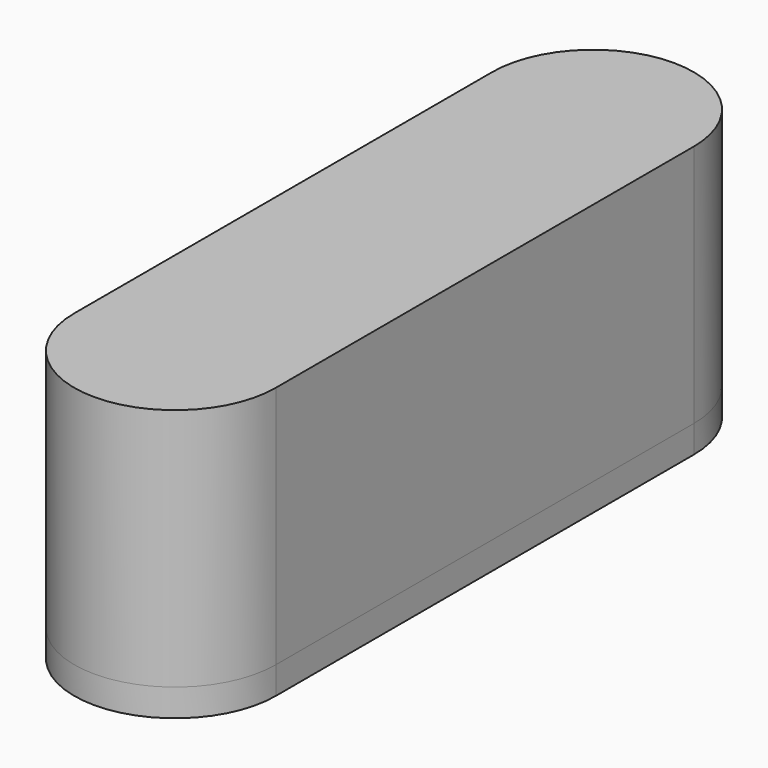
from build123d import *

# Parameters (mm, degrees)
F0_R     = 3.175
F1_DEPTH = 1
F2_SIZE  = 0.25
F3_DEPTH = 8.89
F6_DEPTH = 6.35
F8_DEPTH = 6.35


with BuildPart() as f1:
    # F0 (on Top) → F1 (new body)
    with BuildSketch(Plane.XY):
        with BuildLine():
            Line((3.675, -9.525), (3.675, 9.525))
            ThreePointArc((3.675, 9.525), (0, 5.85), (-3.675, 9.525))
            Line((-3.675, 9.525), (-3.675, -9.525))
            ThreePointArc((-3.675, -9.525), (0, -5.85), (3.675, -9.525))
        make_face()
        with BuildLine():
            ThreePointArc((-3.675, 9.525), (0, 5.85), (3.675, 9.525))
            ThreePointArc((3.675, 9.525), (0, 13.2), (-3.675, 9.525))
        make_face()
        with Locations((0, 9.525)):
            Circle(F0_R, mode=Mode.SUBTRACT)
        with BuildLine():
            ThreePointArc((-3.675, -9.525), (0, -13.2), (3.675, -9.525))
            ThreePointArc((3.675, -9.525), (0, -5.85), (-3.675, -9.525))
        make_face()
        with Locations((0, -9.525)):
            Circle(F0_R, mode=Mode.SUBTRACT)
    extrude(amount=F1_DEPTH)

    # F2
    f2_edges = [f1.edges().sort_by_distance(p)[0] for p in [
        (-3.175, -9.525, 1),
        (-3.175, 9.525, 1),
    ]]
    chamfer(f2_edges, length=F2_SIZE)


with BuildPart() as f3:
    # F0 (on Top) → F3 (new body)
    with BuildSketch(Plane.XY):
        with BuildLine():
            ThreePointArc((-3.675, 9.525), (0, 5.85), (3.675, 9.525))
            ThreePointArc((3.675, 9.525), (0, 13.2), (-3.675, 9.525))
        make_face()
        with Locations((0, 9.525)):
            Circle(F0_R, mode=Mode.SUBTRACT)
        with Locations((0, 9.525)):
            Circle(F0_R)
        with BuildLine():
            Line((3.675, -9.525), (3.675, 9.525))
            ThreePointArc((3.675, 9.525), (0, 5.85), (-3.675, 9.525))
            Line((-3.675, 9.525), (-3.675, -9.525))
            ThreePointArc((-3.675, -9.525), (0, -5.85), (3.675, -9.525))
        make_face()
        with BuildLine():
            ThreePointArc((-3.675, -9.525), (0, -13.2), (3.675, -9.525))
            ThreePointArc((3.675, -9.525), (0, -5.85), (-3.675, -9.525))
        make_face()
        with Locations((0, -9.525)):
            Circle(F0_R, mode=Mode.SUBTRACT)
        with Locations((0, -9.525)):
            Circle(F0_R)
    extrude(amount=F3_DEPTH)


with BuildPart() as f3_1:
    # F4: moved
    add(f3.part.moved(Location((0, 0, 1))))

    # F5 (on face) → F6 (cut)
    with BuildSketch(Plane(origin=(0, 0, 1), x_dir=(1, 0, 0), z_dir=(0, 0, -1))):
        with BuildLine():
            Line((-1.8806655426, 7.9525317997), (-1.8806655426, 6.9669300015))
            ThreePointArc((-1.8806655426, 6.9669300015), (0.0335689365, 6.3501774654), (1.9343344574, 7.0072678445))
            Line((1.9343344574, 7.0072678445), (1.9343344574, 7.9525317997))
            Line((1.9343344574, 7.9525317997), (-1.8806655426, 7.9525317997))
        make_face()
        with BuildLine():
            ThreePointArc((1.9343344574, 7.0072678445), (2.847993759, 8.1215910971), (3.175, 9.525))
            ThreePointArc((3.175, 9.525), (-1.4334419944, 12.3579964788), (-1.8806655426, 6.9669300015))
            Line((-1.8806655426, 6.9669300015), (-1.8806655426, 7.9525317997))
            Line((-1.8806655426, 7.9525317997), (1.9343344574, 7.9525317997))
            Line((1.9343344574, 7.9525317997), (1.9343344574, 7.0072678445))
        make_face()
        with BuildLine():
            ThreePointArc((1.9343344574, -7.0072678445), (0.0335689365, -6.3501774654), (-1.8806655426, -6.9669300015))
            Line((-1.8806655426, -6.9669300015), (-1.8806655426, -12.0830699985))
            ThreePointArc((-1.8806655426, -12.0830699985), (0.0335689365, -12.6998225346), (1.9343344574, -12.0427321555))
            Line((1.9343344574, -12.0427321555), (1.9343344574, -7.0072678445))
        make_face()
        with BuildLine():
            ThreePointArc((3.175, -9.525), (2.847993759, -8.1215910971), (1.9343344574, -7.0072678445))
            Line((1.9343344574, -7.0072678445), (1.9343344574, -12.0427321555))
            ThreePointArc((1.9343344574, -12.0427321555), (2.847993759, -10.9284089029), (3.175, -9.525))
        make_face()
        with BuildLine():
            Line((-1.8806655426, -12.0830699985), (-1.8806655426, -6.9669300015))
            ThreePointArc((-1.8806655426, -6.9669300015), (-3.175, -9.525), (-1.8806655426, -12.0830699985))
        make_face()
    extrude(amount=-F6_DEPTH, mode=Mode.SUBTRACT)

    # F7 (on face) → F8 (cut)
    with BuildSketch(Plane(origin=(0, 0, 1), x_dir=(1, 0, 0), z_dir=(0, 0, -1))):
        with BuildLine():
            Line((1.7267590156, 6.8606185892), (1.7267590156, 9.8988795653))
            Line((1.7267590156, 9.8988795653), (-1.6613168409, 9.8988795653))
            Line((-1.6613168409, 9.8988795653), (-1.6613168409, 6.8193297773))
            ThreePointArc((-1.6613168409, 6.8193297773), (0.0386892886, 6.3502357349), (1.7267590156, 6.8606185892))
        make_face()
        with BuildLine():
            Line((1.7267590156, -6.8606185892), (1.7267590156, 6.8606185892))
            ThreePointArc((1.7267590156, 6.8606185892), (0.0386892886, 6.3502357349), (-1.6613168409, 6.8193297773))
            Line((-1.6613168409, 6.8193297773), (-1.6613168409, -6.8193297773))
            ThreePointArc((-1.6613168409, -6.8193297773), (0.0386892886, -6.3502357349), (1.7267590156, -6.8606185892))
        make_face()
        with BuildLine():
            Line((1.7267590156, -12.1893814108), (1.7267590156, -6.8606185892))
            ThreePointArc((1.7267590156, -6.8606185892), (0.0386892886, -6.3502357349), (-1.6613168409, -6.8193297773))
            Line((-1.6613168409, -6.8193297773), (-1.6613168409, -12.2306702227))
            ThreePointArc((-1.6613168409, -12.2306702227), (0.0386892886, -12.6997642651), (1.7267590156, -12.1893814108))
        make_face()
        with BuildLine():
            Line((1.7267590156, -12.7690604652), (1.7267590156, -12.1893814108))
            ThreePointArc((1.7267590156, -12.1893814108), (0.0386892886, -12.6997642651), (-1.6613168409, -12.2306702227))
            Line((-1.6613168409, -12.2306702227), (-1.6613168409, -12.8030560328))
            ThreePointArc((-1.6613168409, -12.8030560328), (0.0368726757, -13.1998150165), (1.7267590156, -12.7690604652))
        make_face()
        with BuildLine():
            Line((1.7267590156, -17.7644323558), (1.7267590156, -12.7690604652))
            ThreePointArc((1.7267590156, -12.7690604652), (0.0368726757, -13.1998150165), (-1.6613168409, -12.8030560328))
            Line((-1.6613168409, -12.8030560328), (-1.6613168409, -17.7644323558))
            Line((-1.6613168409, -17.7644323558), (1.7267590156, -17.7644323558))
        make_face()
    extrude(amount=-F8_DEPTH, mode=Mode.SUBTRACT)


solid = Compound([f1.part, f3_1.part])
